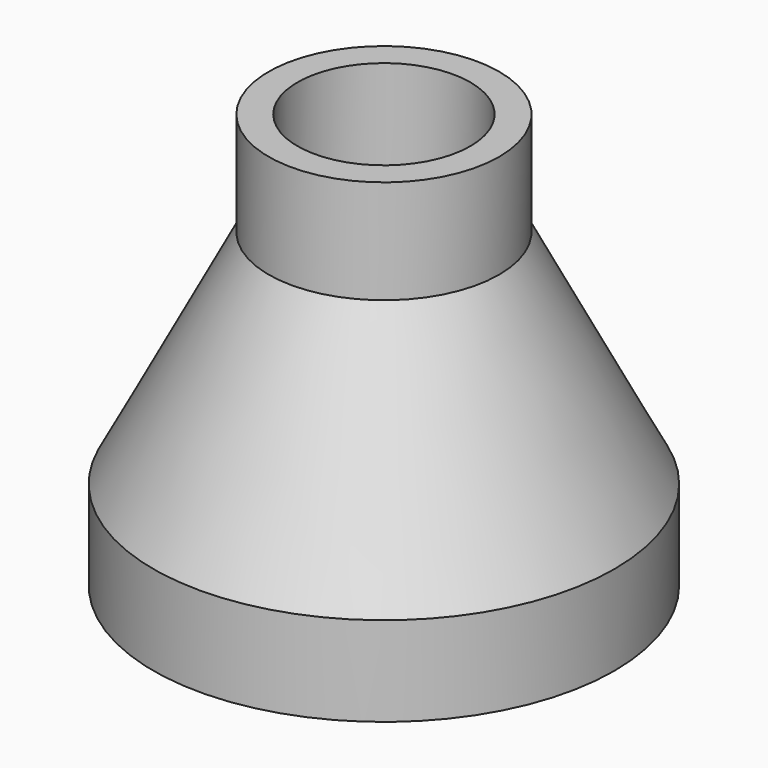
from build123d import *

# Parameters (mm, degrees)
F0_R     = 25.4
F1_DEPTH = 31.75
F4_T     = -2.54
F5_R     = 12.7
F5_R_2   = 9.525
F6_DEPTH = 11.43
F7_R     = 25.4
F7_R_2   = 1.27
F8_DEPTH = 2.54


with BuildPart() as f1:
    # F0 (on Top) → F1 (new body)
    with BuildSketch(Plane.XY):
        Circle(F0_R)
    extrude(amount=F1_DEPTH)

    # F2 (on Right) → F3 (revolve, cut)
    with BuildSketch(Plane.YZ):
        Polygon((-29.21, 31.75), (-29.21, 0), (-12.7, 31.75), align=None)
    revolve(axis=Axis((0, 0, 15.875), (0, 0, -1)), mode=Mode.SUBTRACT)

    # F4
    f4_openings = [f1.faces().sort_by_distance(p)[0] for p in [
        (0, 0, 0),
        (0, 0, 31.75),
    ]]
    offset(amount=F4_T, openings=f4_openings)

    # F5 (on face) → F6 (join)
    with BuildSketch(Plane.XY.offset(31.75)):
        Circle(F5_R)
        Circle(F5_R_2, mode=Mode.SUBTRACT)
    extrude(amount=F6_DEPTH)

    # F7 (on face) → F8 (join)
    with BuildSketch(Plane(origin=(0, 0, 0), x_dir=(1, 0, 0), z_dir=(0, 0, -1))):
        Circle(F7_R)
        with Locations((-13.470384, -13.470384)):
            Circle(F7_R_2, mode=Mode.SUBTRACT)
        with Locations((-5.578226, -20.818224)):
            Circle(F7_R_2, mode=Mode.SUBTRACT)
        with Locations((-4.18367, -15.613668)):
            Circle(F7_R_2, mode=Mode.SUBTRACT)
        with Locations((-20.818224, -5.578226)):
            Circle(F7_R_2, mode=Mode.SUBTRACT)
        with Locations((-15.613668, -4.18367)):
            Circle(F7_R_2, mode=Mode.SUBTRACT)
        with Locations((-8.980256, -8.980256)):
            Circle(F7_R_2, mode=Mode.SUBTRACT)
        with Locations((-2.789113, -10.409112)):
            Circle(F7_R_2, mode=Mode.SUBTRACT)
        with Locations((-10.409112, -2.789113)):
            Circle(F7_R_2, mode=Mode.SUBTRACT)
        with Locations((-1.394557, -5.204557)):
            Circle(F7_R_2, mode=Mode.SUBTRACT)
        with Locations((-5.204557, -1.394557)):
            Circle(F7_R_2, mode=Mode.SUBTRACT)
        with Locations((4.930503, -18.400887)):
            Circle(F7_R_2, mode=Mode.SUBTRACT)
        with Locations((15.239998, -15.239998)):
            Circle(F7_R_2, mode=Mode.SUBTRACT)
        with Locations((3.287002, -12.267258)):
            Circle(F7_R_2, mode=Mode.SUBTRACT)
        with Locations((11.429998, -11.429998)):
            Circle(F7_R_2, mode=Mode.SUBTRACT)
        with Locations((7.619999, -7.619999)):
            Circle(F7_R_2, mode=Mode.SUBTRACT)
        with Locations((3.81, -3.81)):
            Circle(F7_R_2, mode=Mode.SUBTRACT)
        with Locations((12.267258, -3.287002)):
            Circle(F7_R_2, mode=Mode.SUBTRACT)
        with Locations((18.400887, -4.930503)):
            Circle(F7_R_2, mode=Mode.SUBTRACT)
        with Locations((-18.400887, 4.930503)):
            Circle(F7_R_2, mode=Mode.SUBTRACT)
        with Locations((-12.267258, 3.287002)):
            Circle(F7_R_2, mode=Mode.SUBTRACT)
        with Locations((-3.81, 3.81)):
            Circle(F7_R_2, mode=Mode.SUBTRACT)
        with Locations((-7.619999, 7.619999)):
            Circle(F7_R_2, mode=Mode.SUBTRACT)
        with Locations((-11.429998, 11.429998)):
            Circle(F7_R_2, mode=Mode.SUBTRACT)
        with Locations((-3.287002, 12.267258)):
            Circle(F7_R_2, mode=Mode.SUBTRACT)
        with Locations((-15.239998, 15.239998)):
            Circle(F7_R_2, mode=Mode.SUBTRACT)
        with Locations((-4.930503, 18.400887)):
            Circle(F7_R_2, mode=Mode.SUBTRACT)
        with Locations((5.204557, 1.394557)):
            Circle(F7_R_2, mode=Mode.SUBTRACT)
        with Locations((1.394557, 5.204557)):
            Circle(F7_R_2, mode=Mode.SUBTRACT)
        with Locations((10.409112, 2.789113)):
            Circle(F7_R_2, mode=Mode.SUBTRACT)
        with Locations((2.789113, 10.409112)):
            Circle(F7_R_2, mode=Mode.SUBTRACT)
        with Locations((8.980256, 8.980256)):
            Circle(F7_R_2, mode=Mode.SUBTRACT)
        with Locations((15.613668, 4.18367)):
            Circle(F7_R_2, mode=Mode.SUBTRACT)
        with Locations((20.818224, 5.578226)):
            Circle(F7_R_2, mode=Mode.SUBTRACT)
        with Locations((4.18367, 15.613668)):
            Circle(F7_R_2, mode=Mode.SUBTRACT)
        with Locations((5.578226, 20.818224)):
            Circle(F7_R_2, mode=Mode.SUBTRACT)
        with Locations((13.470384, 13.470384)):
            Circle(F7_R_2, mode=Mode.SUBTRACT)
    extrude(amount=F8_DEPTH)


solid = f1.part
